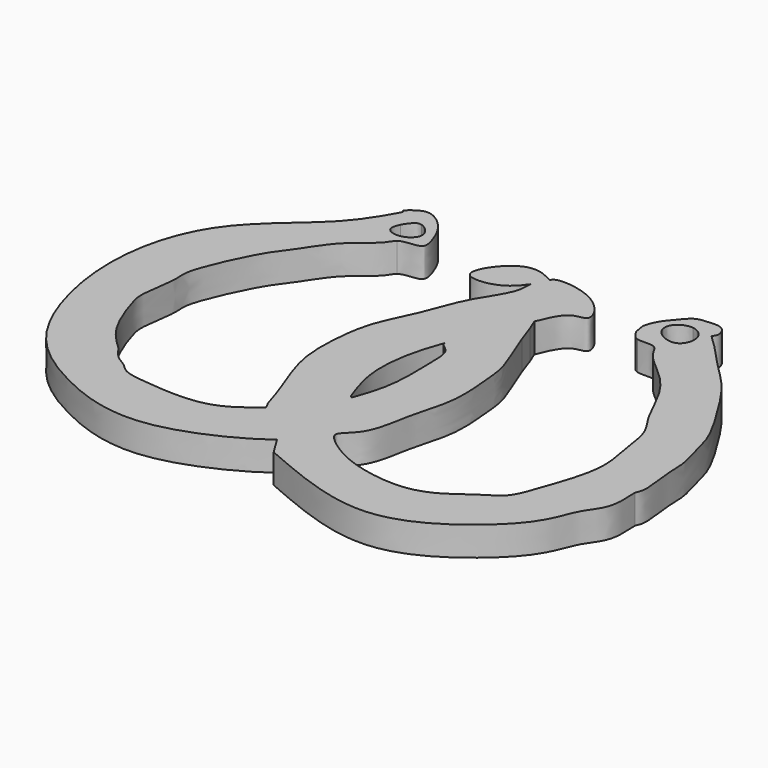
from build123d import *

# Parameters (mm, degrees)
F1_DEPTH = 3


with BuildPart() as f1:
    # F0 (on Top) → F1 (new body)
    with BuildSketch(Plane.XY):
        with BuildLine():
            add(Edge.make_bspline(
                [(-56.2030705962, 45.1431349951), (-56.0310778124, 44.8836883596), (-55.8590850285, 44.6242417242), (-55.6870922446, 44.3647950888)],
                knots=[4.4259400432, 4.4259400432, 4.4259400432, 4.4259400432, 5.3597744338, 5.3597744338, 5.3597744338, 5.3597744338], degree=3))
            add(Edge.make_bspline(
                [(-58.092336064, 49.2860668982), (-57.6959493721, 49.5825110742), (-56.6215611022, 50.162056532), (-54.508586427, 48.4787945693), (-53.7043008016, 46.6427646909), (-53.1241923732, 44.8033459762), (-54.5675724603, 44.6684835278), (-55.4131599648, 44.5654823179), (-55.6870922446, 44.3647950888)],
                knots=[0.0179414659, 0.0179414659, 0.0179414659, 0.0179414659, 0.0559315022, 0.1178765375, 0.1762211335, 0.2236530712, 0.2648984433, 0.3076387528, 0.3076387528, 0.3076387528, 0.3076387528], degree=3))
            add(Edge.make_bspline(
                [(-58.4765954498, 48.5726880295), (-58.3474445759, 48.8103196412), (-58.2198534464, 49.0481876804), (-58.092336064, 49.2860668982)],
                knots=[0.9853570165, 0.9853570165, 0.9853570165, 0.9853570165, 0.9993076564, 0.9993076564, 0.9993076564, 0.9993076564], degree=3))
            add(Edge.make_bspline(
                [(-58.4765954498, 48.5726880295), (-58.0664955742, 47.954063047), (-57.6563956986, 47.3354380644), (-57.246295823, 46.7168130819)],
                knots=[0.3112408712, 0.3112408712, 0.3112408712, 0.3112408712, 2.537877122, 2.537877122, 2.537877122, 2.537877122], degree=3))
            add(Edge.make_bspline(
                [(-55.9549294412, 47.800399363), (-56.3161047403, 47.8865024609), (-56.6951015162, 47.5922740528), (-57.1292759788, 46.9452931128), (-57.246295823, 46.7168130819)],
                knots=[0, 0, 0, 0, 0.1596981073, 0.2414599219, 0.2414599219, 0.2414599219, 0.2414599219], degree=3))
            add(Edge.make_bspline(
                [(-56.2030705943, 45.1431350023), (-56.1019515793, 45.150614447), (-55.330068595, 45.2707872581), (-54.1116498001, 46.4501000208), (-55.4692641978, 47.6846182393), (-55.9549294412, 47.800399363)],
                knots=[0.5428604841, 0.5428604841, 0.5428604841, 0.5428604841, 0.5747010912, 0.7852571304, 1, 1, 1, 1], degree=3))
        make_face()
        with BuildLine():
            add(Edge.make_bspline(
                [(-55.6870922446, 44.3647950888), (-55.9553996082, 44.1682287644), (-56.2779440463, 43.2442842859), (-59.2311230948, 41.3644428921), (-61.0471901971, 38.1713885156), (-62.8532642285, 36.1889616863), (-65.8196808662, 29.6337550593), (-65.2811439585, 28.1253896455), (-66.0413355632, 24.292275254), (-65.696171658, 22.6803013656), (-64.1229297092, 18.1891761184), (-62.3855819522, 16.5429729654), (-61.5669749677, 15.7673116773)],
                knots=[0.3076387528, 0.3076387528, 0.3076387528, 0.3076387528, 0.3495014342, 0.4217996, 0.4955645634, 0.5632658545, 0.6647198932, 0.7165937566, 0.7901778079, 0.8430286233, 0.9260379133, 1, 1, 1, 1], degree=3))
            add(Edge.make_bspline(
                [(-56.2030705962, 45.1431349951), (-56.0310778124, 44.8836883596), (-55.8590850285, 44.6242417242), (-55.6870922446, 44.3647950888)],
                knots=[4.4259400432, 4.4259400432, 4.4259400432, 4.4259400432, 5.3597744338, 5.3597744338, 5.3597744338, 5.3597744338], degree=3))
            add(Edge.make_bspline(
                [(-57.246295823, 46.7168130819), (-57.433592114, 46.3511190179), (-57.6879730653, 45.4533887165), (-56.7446585555, 45.1030755022), (-56.2030705943, 45.1431350023)],
                knots=[0.2414599219, 0.2414599219, 0.2414599219, 0.2414599219, 0.3723239195, 0.5428604841, 0.5428604841, 0.5428604841, 0.5428604841], degree=3))
            add(Edge.make_bspline(
                [(-58.4765954498, 48.5726880295), (-58.0664955742, 47.954063047), (-57.6563956986, 47.3354380644), (-57.246295823, 46.7168130819)],
                knots=[0.3112408712, 0.3112408712, 0.3112408712, 0.3112408712, 2.537877122, 2.537877122, 2.537877122, 2.537877122], degree=3))
            add(Edge.make_bspline(
                [(-41.586715728, 11.2382695079), (-44.0933179038, 9.3936931508), (-52.3468170114, 5.2061683983), (-61.7646004071, 8.7630178226), (-68.8681156344, 13.8178824222), (-72.5033508926, 26.4373161947), (-69.5632321744, 37.9469555406), (-61.4905166081, 43.3410035884), (-59.3091893371, 47.040753933), (-58.4765954498, 48.5726880295)],
                knots=[0.0894417971, 0.0894417971, 0.0894417971, 0.0894417971, 0.2308958438, 0.3597431718, 0.4797163947, 0.6264208808, 0.7667536338, 0.8954217552, 0.9853570165, 0.9853570165, 0.9853570165, 0.9853570165], degree=3))
            add(Edge.make_bspline(
                [(-38.281314075, 14.4599257037), (-39.1415490503, 13.4322630507), (-40.0017840257, 12.4046003976), (-41.586715728, 11.2382695079)],
                knots=[0, 0, 0, 0, 0.0894417971, 0.0894417971, 0.0894417971, 0.0894417971], degree=3))
            add(Edge.make_bspline(
                [(-37.1916368604, 37.3431518674), (-36.9078951105, 36.5921071598), (-36.3191011579, 35.0336104558), (-35.1382206507, 32.2971005419), (-34.9908342922, 29.8892674696), (-34.5038253334, 25.5903517378), (-35.7649551839, 21.8992257194), (-36.1324794783, 19.3007694438), (-36.863449917, 16.4762026275), (-38.6194417596, 15.225734137), (-38.4746201701, 14.7085250985), (-38.281314075, 14.4599257037)],
                knots=[0, 0, 0, 0, 0.035788666, 0.0742652434, 0.1096854511, 0.1565324287, 0.2012364504, 0.2382090032, 0.2766953006, 0.3077905108, 0.3264705683, 0.3264705683, 0.3264705683, 0.3264705683], degree=3))
            add(Edge.make_bspline(
                [(-37.8075428307, 39.0961095691), (-37.6022408406, 38.5117903352), (-37.3969388505, 37.9274711013), (-37.1916368604, 37.3431518674)],
                knots=[0, 0, 0, 0, 1.8580099214, 1.8580099214, 1.8580099214, 1.8580099214], degree=3))
            add(Edge.make_bspline(
                [(-37.8075428307, 39.0961095691), (-37.9695933321, 39.4928069578), (-38.1321347078, 39.8897000303), (-38.2941852092, 40.286397419)],
                knots=[0, 0, 0, 0, 1.2859261138, 1.2859261138, 1.2859261138, 1.2859261138], degree=3))
            add(Edge.make_bspline(
                [(-41.586715728, 32.8104458749), (-41.7856875331, 33.6211906231), (-39.7962227321, 36.2667161959), (-38.643028658, 39.4113205973), (-38.2941852092, 40.286397419)],
                knots=[0.4311545067, 0.4311545067, 0.4311545067, 0.4311545067, 0.4767197185, 0.4973365599, 0.4973365599, 0.4973365599, 0.4973365599], degree=3))
            add(Edge.make_bspline(
                [(-41.494662434, 20.7143140044), (-41.0625076534, 21.8373544218), (-40.1463997012, 24.7475708574), (-40.3615300263, 28.8932309076), (-40.2796325836, 32.0280395944), (-41.4875844188, 32.4065183519), (-41.586715728, 32.8104458749)],
                knots=[0.2954727187, 0.2954727187, 0.2954727187, 0.2954727187, 0.3318688881, 0.3750203396, 0.4084531038, 0.4311545067, 0.4311545067, 0.4311545067, 0.4311545067], degree=3))
            add(Edge.make_bspline(
                [(-45.8039704214, 15.1232071221), (-45.5502824093, 15.3429572196), (-44.4333018896, 16.3339779439), (-42.8609297572, 17.6905138072), (-42.0369246308, 19.3505297362), (-41.5699909663, 20.5185577844), (-41.494662434, 20.7143140044)],
                knots=[0.2125264957, 0.2125264957, 0.2125264957, 0.2125264957, 0.2221382139, 0.2563525813, 0.2891285334, 0.2954727187, 0.2954727187, 0.2954727187, 0.2954727187], degree=3))
            add(Edge.make_bspline(
                [(-61.5669749677, 15.7673116773), (-61.1911407377, 15.2494183783), (-60.5163482631, 14.3195656057), (-59.397884959, 13.8699637043), (-58.5935126671, 12.790426713), (-55.9230965492, 12.479192932), (-52.2738259999, 12.160022197), (-48.7759667378, 12.6790077794), (-46.665442873, 14.3769808671), (-45.8039704214, 15.1232071221)],
                knots=[0, 0, 0, 0, 0.0268155076, 0.0481459677, 0.0700805385, 0.1020246917, 0.1409188905, 0.1798870721, 0.2125264957, 0.2125264957, 0.2125264957, 0.2125264957], degree=3))
        make_face()
        with BuildLine():
            add(Edge.make_bspline(
                [(-58.4765954498, 48.5726880295), (-58.3474445759, 48.8103196412), (-58.2198534464, 49.0481876804), (-58.092336064, 49.2860668982)],
                knots=[0.9853570165, 0.9853570165, 0.9853570165, 0.9853570165, 0.9993076564, 0.9993076564, 0.9993076564, 0.9993076564], degree=3))
            add(Edge.make_bspline(
                [(-58.6485676467, 48.83210361), (-58.4640521646, 48.9890847544), (-58.2795366825, 49.1460658987), (-58.092336064, 49.2860668982)],
                knots=[0, 0, 0, 0, 0.0179414659, 0.0179414659, 0.0179414659, 0.0179414659], degree=3))
            add(Edge.make_bspline(
                [(-58.6485676467, 48.83210361), (-58.5912435811, 48.7456317499), (-58.5339195155, 48.6591598897), (-58.4765954498, 48.5726880295)],
                knots=[0, 0, 0, 0, 0.3112408712, 0.3112408712, 0.3112408712, 0.3112408712], degree=3))
        make_face()
        with BuildLine():
            add(Edge.make_bspline(
                [(-46.1428239942, 15.7673116773), (-46.0298728033, 15.5526101589), (-45.9169216123, 15.3379086405), (-45.8039704214, 15.1232071221)],
                knots=[0, 0, 0, 0, 0.7277997127, 0.7277997127, 0.7277997127, 0.7277997127], degree=3))
            add(Edge.make_bspline(
                [(-45.8039704214, 15.1232071221), (-45.5502824093, 15.3429572196), (-44.4333018896, 16.3339779439), (-42.8609297572, 17.6905138072), (-42.0369246308, 19.3505297362), (-41.5699909663, 20.5185577844), (-41.494662434, 20.7143140044)],
                knots=[0.2125264957, 0.2125264957, 0.2125264957, 0.2125264957, 0.2221382139, 0.2563525813, 0.2891285334, 0.2954727187, 0.2954727187, 0.2954727187, 0.2954727187], degree=3))
            add(Edge.make_bspline(
                [(-41.7207181454, 20.9511630237), (-41.6458879016, 20.8724140895), (-41.5694926778, 20.7930629386), (-41.494662434, 20.7143140044)],
                knots=[0, 0, 0, 0, 0.3274120379, 0.3274120379, 0.3274120379, 0.3274120379], degree=3))
            add(Edge.make_bspline(
                [(-41.586715728, 32.8104458749), (-41.9270373728, 31.8480445719), (-42.6726179435, 29.739604736), (-43.2048618807, 25.077383561), (-42.2117977654, 22.316463948), (-41.7207181454, 20.9511630237)],
                knots=[0, 0, 0, 0, 0.2979955901, 0.6528521637, 1, 1, 1, 1], degree=3))
            add(Edge.make_bspline(
                [(-41.586715728, 32.8104458749), (-41.7856875331, 33.6211906231), (-39.7962227321, 36.2667161959), (-38.643028658, 39.4113205973), (-38.2941852092, 40.286397419)],
                knots=[0.4311545067, 0.4311545067, 0.4311545067, 0.4311545067, 0.4767197185, 0.4973365599, 0.4973365599, 0.4973365599, 0.4973365599], degree=3))
            add(Edge.make_bspline(
                [(-38.2941852092, 40.286397419), (-37.8056995589, 41.5117679162), (-36.9383922035, 43.4024280875), (-34.4273431545, 42.9656981575), (-36.8590496689, 47.1609211614), (-41.8537306226, 47.399392678), (-41.7877174914, 46.6797761619)],
                knots=[0.4973365599, 0.4973365599, 0.4973365599, 0.4973365599, 0.5262063329, 0.5508271614, 0.5890649343, 0.6306780427, 0.6306780427, 0.6306780427, 0.6306780427], degree=3))
            add(Edge.make_bspline(
                [(-41.7877174914, 46.6797761619), (-41.7443868598, 46.2074241083), (-39.4007049366, 44.565518631), (-41.7781629137, 45.7676202367), (-42.25673154, 45.674752444)],
                knots=[0.6306780427, 0.6306780427, 0.6306780427, 0.6306780427, 0.6579926425, 0.6843274403, 0.6843274403, 0.6843274403, 0.6843274403], degree=3))
            add(Edge.make_bspline(
                [(-42.25673154, 45.674752444), (-42.3633042855, 45.512643039), (-42.4698770311, 45.3505336339), (-42.5798840954, 45.1909019534)],
                knots=[0, 0, 0, 0, 0.0397862502, 0.0397862502, 0.0397862502, 0.0397862502], degree=3))
            add(Edge.make_bspline(
                [(-42.5798840954, 45.1909019534), (-42.6158597179, 44.8882879422), (-42.5160726303, 43.2411086904), (-45.0125807474, 40.1441170164), (-46.3026647892, 35.7356889322), (-48.4745278183, 31.8359596224), (-48.9636068796, 27.7510100496), (-49.0321111351, 23.4150834118), (-47.0324658558, 18.6671702647), (-46.4120731625, 16.6449508113), (-46.1428239942, 15.7673116773)],
                knots=[0.696255732, 0.696255732, 0.696255732, 0.696255732, 0.7101600123, 0.7524144987, 0.7959876161, 0.8379866404, 0.8781639218, 0.9200594218, 0.9653059515, 1, 1, 1, 1], degree=3))
        make_face()
        with BuildLine():
            add(Edge.make_bspline(
                [(-38.281314075, 14.4599257037), (-39.1415490503, 13.4322630507), (-40.0017840257, 12.4046003976), (-41.586715728, 11.2382695079)],
                knots=[0, 0, 0, 0, 0.0894417971, 0.0894417971, 0.0894417971, 0.0894417971], degree=3))
            add(Edge.make_bspline(
                [(-40.4476858675, 9.3893501908), (-40.8273624877, 10.0056566298), (-41.2070391079, 10.6219630688), (-41.586715728, 11.2382695079)],
                knots=[0, 0, 0, 0, 2.171610385, 2.171610385, 2.171610385, 2.171610385], degree=3))
            add(Edge.make_bspline(
                [(-13.314682059, 22.0723934472), (-13.2508940937, 20.9070725963), (-13.1326561751, 18.7470238882), (-14.9129853808, 16.8921297491), (-15.7957792337, 13.5662764937), (-19.7301320955, 9.3169327287), (-28.1586156474, 4.0722078383), (-36.1083376893, 7.5118337011), (-40.4476858675, 9.3893501908)],
                knots=[0, 0, 0, 0, 0.1273460878, 0.2360497988, 0.3631996956, 0.5321003, 0.7445973959, 1, 1, 1, 1], degree=3))
            add(Edge.make_bspline(
                [(-25.5661130896, 47.2075710427), (-25.1508866135, 46.8241002721), (-24.201359675, 45.9463972654), (-22.1806818484, 43.6578653165), (-19.5379704332, 41.192793128), (-17.4362792957, 38.048088647), (-14.6434077971, 33.4313895778), (-14.2651947226, 31.3429382402), (-13.3265954, 28.4973390488), (-13.4778997196, 26.524132138), (-12.8586356028, 23.036242755), (-13.1966829837, 22.3217832071), (-13.314682059, 22.0723934472)],
                knots=[0, 0, 0, 0, 0.0803120781, 0.1845533697, 0.2976296642, 0.4169531086, 0.5537883892, 0.6429290739, 0.7422128609, 0.8306432589, 0.9408993808, 1, 1, 1, 1], degree=3))
            add(Edge.make_bspline(
                [(-25.5661130896, 47.2075710427), (-25.6514020336, 47.1079236054), (-25.890802975, 46.8648286929), (-26.1585889738, 46.5641918217), (-26.3267420813, 46.3753012167)],
                knots=[0.6742378422, 0.6742378422, 0.6742378422, 0.6742378422, 0.7073121473, 0.754121898, 0.754121898, 0.754121898, 0.754121898], degree=3))
            add(Edge.make_bspline(
                [(-28.1432025119, 44.536801092), (-27.7445928296, 44.3936552794), (-26.5686873941, 44.2950414106), (-26.0941175138, 45.6150244524), (-26.3035126961, 46.3130316346), (-26.3267420813, 46.3753012167)],
                knots=[0.4864467263, 0.4864467263, 0.4864467263, 0.4864467263, 0.5991582918, 0.7995522522, 0.8197929879, 0.8197929879, 0.8197929879, 0.8197929879], degree=3))
            add(Edge.make_bspline(
                [(-28.1432025119, 44.536801092), (-28.6947869419, 44.0499669495), (-29.2951617717, 43.5628853084), (-29.8955366015, 43.0758036673)],
                knots=[0.892536055, 0.892536055, 0.892536055, 0.892536055, 1, 1, 1, 1], degree=3))
            add(Edge.make_bspline(
                [(-38.281314075, 14.4599257037), (-37.8465603419, 13.9008149583), (-35.4150829922, 12.1166380166), (-31.3058363576, 11.1067233008), (-27.9623377692, 11.0343874865), (-25.2761760605, 12.0965058378), (-23.113312817, 13.9207076903), (-20.7702794012, 15.0446932951), (-19.810791917, 18.036493263), (-17.8214599365, 23.4836213559), (-18.6714325063, 27.097239455), (-19.0748353195, 30.8429815724), (-20.6912222323, 32.7252144886), (-22.1981853046, 36.3110367619), (-24.1889553079, 39.1535759936), (-27.4212777259, 41.4681584302), (-27.859352281, 43.3055246901), (-29.3857027246, 42.9118547742), (-29.8955366015, 43.0758036673)],
                knots=[0.3264705683, 0.3264705683, 0.3264705683, 0.3264705683, 0.3684828222, 0.4162647758, 0.4572723738, 0.4951512238, 0.5332762995, 0.568260826, 0.607747462, 0.6619016231, 0.7061413903, 0.7487592034, 0.7841490409, 0.8281146223, 0.8714908045, 0.9160159163, 0.9436795146, 0.9737577301, 0.9737577301, 0.9737577301, 0.9737577301], degree=3))
        make_face()
        with BuildLine():
            add(Edge.make_bspline(
                [(-42.5798840954, 45.1909019534), (-43.0538628142, 44.5031095841), (-44.2421800289, 43.0848316328), (-48.6507667083, 42.734418931), (-46.3944131449, 46.6810577908), (-43.8927980422, 47.7813679333), (-42.4667436409, 47.0351115521), (-41.7877174914, 46.6797761619)],
                knots=[0.0397862502, 0.0397862502, 0.0397862502, 0.0397862502, 0.2112101132, 0.4186090016, 0.6276024939, 0.8226802256, 1, 1, 1, 1], degree=3))
            add(Edge.make_bspline(
                [(-42.3350478136, 45.6510708415), (-42.4925652665, 45.5835004901), (-42.5530744483, 45.4164150718), (-42.5798840954, 45.1909019534)],
                knots=[0.6858940253, 0.6858940253, 0.6858940253, 0.6858940253, 0.696255732, 0.696255732, 0.696255732, 0.696255732], degree=3))
            add(Edge.make_bspline(
                [(-41.7877174914, 46.6797761619), (-41.9701609321, 46.3368743884), (-42.1526043728, 45.9939726149), (-42.3350478136, 45.6510708415)],
                knots=[0, 0, 0, 0, 1.165248951, 1.165248951, 1.165248951, 1.165248951], degree=3))
        make_face()
        with BuildLine():
            add(Edge.make_bspline(
                [(-42.3350478136, 45.6510708415), (-42.4166599075, 45.4976812121), (-42.4982720014, 45.3442915828), (-42.5798840954, 45.1909019534)],
                knots=[1.165248951, 1.165248951, 1.165248951, 1.165248951, 1.686497654, 1.686497654, 1.686497654, 1.686497654], degree=3))
            add(Edge.make_bspline(
                [(-42.25673154, 45.674752444), (-42.3633042855, 45.512643039), (-42.4698770311, 45.3505336339), (-42.5798840954, 45.1909019534)],
                knots=[0, 0, 0, 0, 0.0397862502, 0.0397862502, 0.0397862502, 0.0397862502], degree=3))
            add(Edge.make_bspline(
                [(-42.25673154, 45.674752444), (-42.2852002774, 45.6692279933), (-42.3112327712, 45.6612867937), (-42.3350478136, 45.6510708415)],
                knots=[0.6843274403, 0.6843274403, 0.6843274403, 0.6843274403, 0.6858940253, 0.6858940253, 0.6858940253, 0.6858940253], degree=3))
        make_face()
        with BuildLine():
            add(Edge.make_bspline(
                [(-42.3350478136, 45.6510708415), (-42.4925652665, 45.5835004901), (-42.5530744483, 45.4164150718), (-42.5798840954, 45.1909019534)],
                knots=[0.6858940253, 0.6858940253, 0.6858940253, 0.6858940253, 0.696255732, 0.696255732, 0.696255732, 0.696255732], degree=3))
            add(Edge.make_bspline(
                [(-42.3350478136, 45.6510708415), (-42.4166599075, 45.4976812121), (-42.4982720014, 45.3442915828), (-42.5798840954, 45.1909019534)],
                knots=[1.165248951, 1.165248951, 1.165248951, 1.165248951, 1.686497654, 1.686497654, 1.686497654, 1.686497654], degree=3))
        make_face()
        with BuildLine():
            add(Edge.make_bspline(
                [(-41.7877174914, 46.6797761619), (-41.9701609321, 46.3368743884), (-42.1526043728, 45.9939726149), (-42.3350478136, 45.6510708415)],
                knots=[0, 0, 0, 0, 1.165248951, 1.165248951, 1.165248951, 1.165248951], degree=3))
            add(Edge.make_bspline(
                [(-42.25673154, 45.674752444), (-42.2852002774, 45.6692279933), (-42.3112327712, 45.6612867937), (-42.3350478136, 45.6510708415)],
                knots=[0.6843274403, 0.6843274403, 0.6843274403, 0.6843274403, 0.6858940253, 0.6858940253, 0.6858940253, 0.6858940253], degree=3))
            add(Edge.make_bspline(
                [(-41.7877174914, 46.6797761619), (-41.7443868598, 46.2074241083), (-39.4007049366, 44.565518631), (-41.7781629137, 45.7676202367), (-42.25673154, 45.674752444)],
                knots=[0.6306780427, 0.6306780427, 0.6306780427, 0.6306780427, 0.6579926425, 0.6843274403, 0.6843274403, 0.6843274403, 0.6843274403], degree=3))
        make_face()
        with BuildLine():
            add(Edge.make_bspline(
                [(-29.8955366015, 43.0758036673), (-30.3403501656, 43.2188437727), (-30.5680273695, 43.6427780165), (-30.7957045734, 44.0667122602)],
                knots=[0.9737577301, 0.9737577301, 0.9737577301, 0.9737577301, 1, 1, 1, 1], degree=3))
            add(Edge.make_bspline(
                [(-28.1432025119, 44.536801092), (-28.6947869419, 44.0499669495), (-29.2951617717, 43.5628853084), (-29.8955366015, 43.0758036673)],
                knots=[0.892536055, 0.892536055, 0.892536055, 0.892536055, 1, 1, 1, 1], degree=3))
            add(Edge.make_bspline(
                [(-27.6306439191, 47.4167950451), (-28.2559609552, 47.496188953), (-29.5607621758, 46.8639510215), (-29.4891459982, 45.3080996511), (-28.5269843578, 44.6746220398), (-28.1432025119, 44.536801092)],
                knots=[0, 0, 0, 0, 0.1971289204, 0.3779279057, 0.4864467263, 0.4864467263, 0.4864467263, 0.4864467263], degree=3))
            add(Edge.make_bspline(
                [(-26.3267420813, 46.3753012167), (-26.533557593, 46.9296988202), (-27.0590052449, 47.344216456), (-27.6306439191, 47.4167950451)],
                knots=[0.8197929879, 0.8197929879, 0.8197929879, 0.8197929879, 1, 1, 1, 1], degree=3))
            add(Edge.make_bspline(
                [(-25.5661130896, 47.2075710427), (-25.6514020336, 47.1079236054), (-25.890802975, 46.8648286929), (-26.1585889738, 46.5641918217), (-26.3267420813, 46.3753012167)],
                knots=[0.6742378422, 0.6742378422, 0.6742378422, 0.6742378422, 0.7073121473, 0.754121898, 0.754121898, 0.754121898, 0.754121898], degree=3))
            add(Edge.make_bspline(
                [(-30.9747401625, 45.1080352068), (-30.8833078828, 45.5011052345), (-30.6755414338, 46.3942992375), (-29.2961232307, 48.0105788393), (-28.5272178826, 48.8280792914), (-27.4517317904, 48.960701904), (-25.7031144666, 49.1164903657), (-25.1381745754, 47.8248711264), (-25.422110159, 47.3758170348), (-25.5661130896, 47.2075710427)],
                knots=[0, 0, 0, 0, 0.1005700272, 0.2285306404, 0.3200300628, 0.4104864222, 0.5226195935, 0.6183947676, 0.6742378422, 0.6742378422, 0.6742378422, 0.6742378422], degree=3))
            add(Edge.make_bspline(
                [(-30.9747401625, 45.1080352068), (-30.9150616328, 44.7609275579), (-30.8553831031, 44.4138199091), (-30.7957045734, 44.0667122602)],
                knots=[0, 0, 0, 0, 1.0566017325, 1.0566017325, 1.0566017325, 1.0566017325], degree=3))
        make_face()
    extrude(amount=F1_DEPTH)


solid = f1.part
